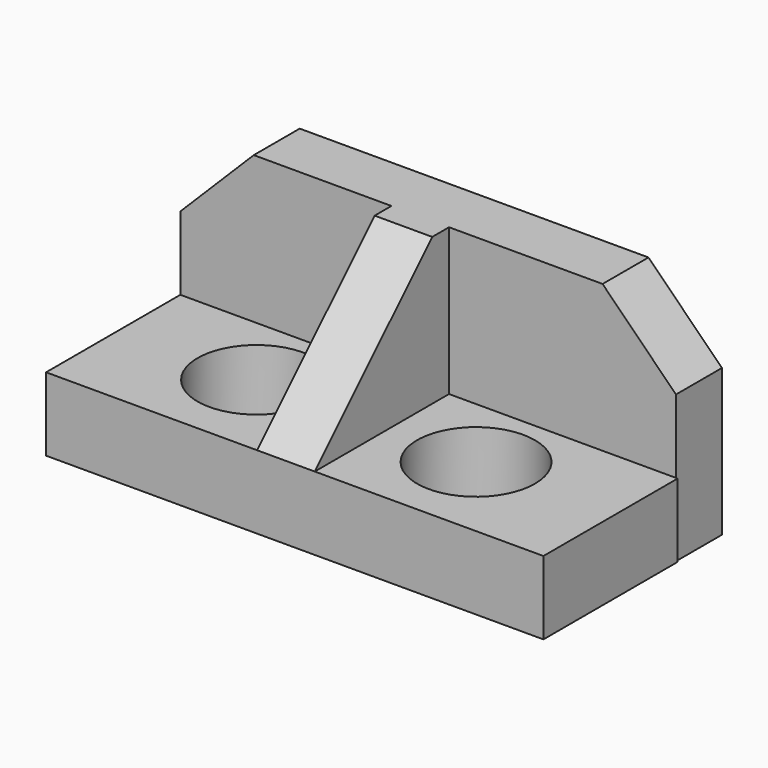
from build123d import *

# Parameters (mm, degrees)
F0_R     = 10.182819
F0_R_2   = 10.195674
F0_W     = 85.729957
F0_H     = 9.931274
F1_DEPTH = 12.7
F2_W     = 85.729957
F2_H     = 9.931274
F3_DEPTH = 25.4
F4_SIZE  = 12.7
F5_SIZE  = 12.7
F6_W     = 9.963379
F6_H     = 29.028814
F7_DEPTH = 25.4
F8_SIZE  = 25.4


with BuildPart() as f1:
    # F0 (on Top) → F1 (new body)
    with BuildSketch(Plane.XY):
        Polygon((-51.090479, 0), (34.932677, 0), (34.932677, 29.028814), (34.639478, 29.028814), (-51.090479, 29.028814), align=None)
        with Locations((-27.52999, 16.03223)):
            Circle(F0_R, mode=Mode.SUBTRACT)
        with Locations((10.635439, 15.799049)):
            Circle(F0_R_2, mode=Mode.SUBTRACT)
        with Locations((-8.2255, 33.994451)):
            Rectangle(F0_W, F0_H)
    extrude(amount=F1_DEPTH)

    # F2 (on face) → F3 (join)
    with BuildSketch(Plane.XY.offset(12.7)):
        with Locations((-8.2255, 33.994451)):
            Rectangle(F2_W, F2_H)
    extrude(amount=F3_DEPTH)

    # F4
    f4_edges = [f1.edges().sort_by_distance(p)[0] for p in [
        (34.639478, 33.994451, 38.1),
    ]]
    chamfer(f4_edges, length=F4_SIZE)

    # F5
    f5_edges = [f1.edges().sort_by_distance(p)[0] for p in [
        (-51.090479, 33.994451, 38.1),
    ]]
    chamfer(f5_edges, length=F5_SIZE)

    # F6 (on face) → F7 (join)
    with BuildSketch(Plane.XY.offset(12.7)):
        with Locations((-9.60124, 14.514407)):
            Rectangle(F6_W, F6_H)
    extrude(amount=F7_DEPTH)

    # F8
    f8_edges = [f1.edges().sort_by_distance(p)[0] for p in [
        (-9.601241, 0, 38.1),
    ]]
    chamfer(f8_edges, length=F8_SIZE)


solid = f1.part
